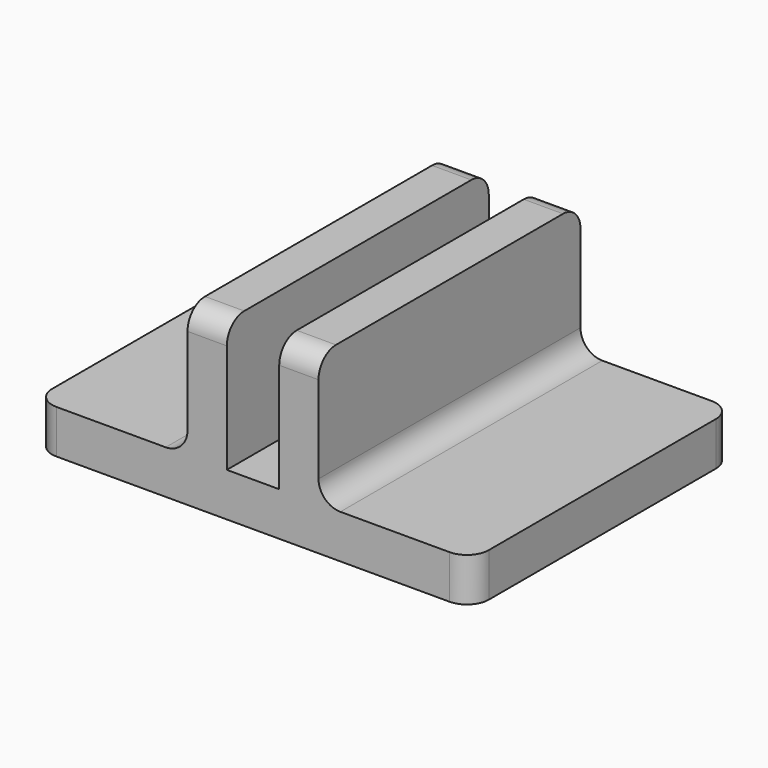
from build123d import *

# Parameters (mm, degrees)
F0_W     = 7
F0_H     = 15
F0_W_2   = 1.8
F0_W_3   = 2.4
F1_DEPTH = 2
F2_DEPTH = 8
F3_R     = 1


with BuildPart() as f1:
    # F0 (on Top) → F1 (new body)
    with BuildSketch(Plane.XY):
        with Locations((-6.5, 0)):
            Rectangle(F0_W, F0_H)
        with Locations((-2.1, 0)):
            Rectangle(F0_W_2, F0_H)
        Rectangle(F0_W_3, F0_H)
        with Locations((2.1, 0)):
            Rectangle(F0_W_2, F0_H)
        with Locations((6.5, 0)):
            Rectangle(F0_W, F0_H)
    extrude(amount=F1_DEPTH)

    # F0 (on Top) → F2 (join)
    with BuildSketch(Plane.XY):
        with Locations((-2.1, 0)):
            Rectangle(F0_W_2, F0_H)
        with Locations((2.1, 0)):
            Rectangle(F0_W_2, F0_H)
    extrude(amount=F2_DEPTH)

    # F3
    f3_edges = [f1.edges().sort_by_distance(p)[0] for p in [
        (2.1, -7.5, 8),
        (-2.1, -7.5, 8),
        (-2.1, 7.5, 8),
        (2.1, 7.5, 8),
        (10, -7.5, 1),
        (10, 7.5, 1),
        (-10, -7.5, 1),
        (-10, 7.5, 1),
        (3, 0, 2),
        (-3, 0, 2),
    ]]
    fillet(f3_edges, radius=F3_R)


solid = f1.part
